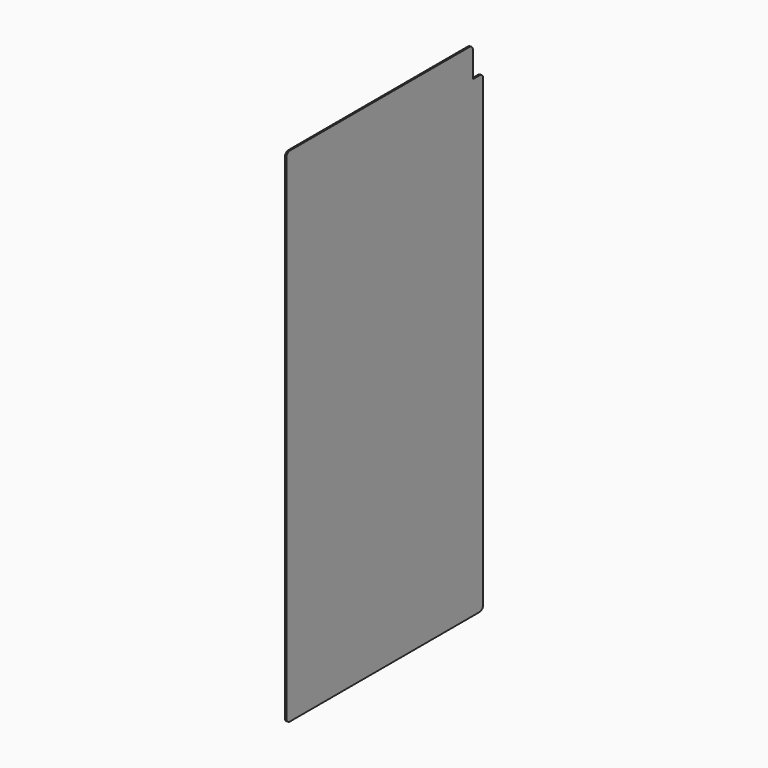
from build123d import *

# Parameters (mm, degrees)
F0_W     = 519.1125
F0_H     = 1060.45
F1_DEPTH = 1.5875
F2_W     = 26.9875
F2_H     = 63.5
F3_DEPTH = 3.176
F4_R     = 9.525


with BuildPart() as f1:
    # F0 (on Right) → F1 (new body, symmetric)
    with BuildSketch(Plane.YZ):
        Rectangle(F0_W, F0_H)
    extrude(amount=F1_DEPTH, both=True)

    # F2 (on face) → F3 (cut, through all)
    with BuildSketch(Plane.YZ.offset(1.5875)):
        with Locations((246.0625, 498.475)):
            Rectangle(F2_W, F2_H)
    extrude(amount=-F3_DEPTH, mode=Mode.SUBTRACT)

    # F4
    f4_edges = [f1.edges().sort_by_distance(p)[0] for p in [
        (0, -259.55625, 530.225),
        (0, -259.55625, -530.225),
        (0, 259.55625, -530.225),
        (0, 232.56875, 530.225),
        (0, 259.55625, 466.725),
    ]]
    fillet(f4_edges, radius=F4_R)


solid = f1.part
